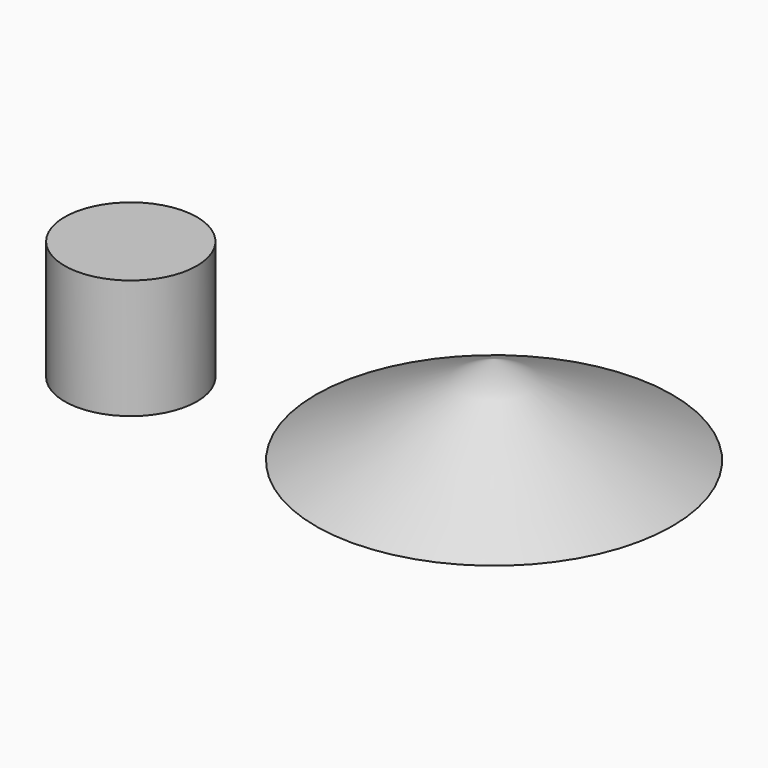
from build123d import *

# Parameters (mm, degrees)
F2_W = 94.2939072847
F2_H = 170.2678501606


with BuildPart() as f1:
    # F0 (on Front) → F1 (revolve)
    with BuildSketch(Plane.XZ):
        Polygon((193.2273761332, 11.3675417379), (193.2273761332, 138.3675417379), (-60.7726238668, 11.3675417379), align=None)
    revolve(axis=Axis((193.2273761332, 0, 74.8675417379), (0, 0, -1)))


with BuildPart() as f3:
    # F2 (on Front) → F3 (revolve)
    with BuildSketch(Plane.XZ):
        with Locations((-277.6040956378, 32.7002480626)):
            Rectangle(F2_W, F2_H)
    revolve(axis=Axis((-324.7510492802, 0, 32.7002480626), (0, 0, -1)))


solid = Compound([f1.part, f3.part])
